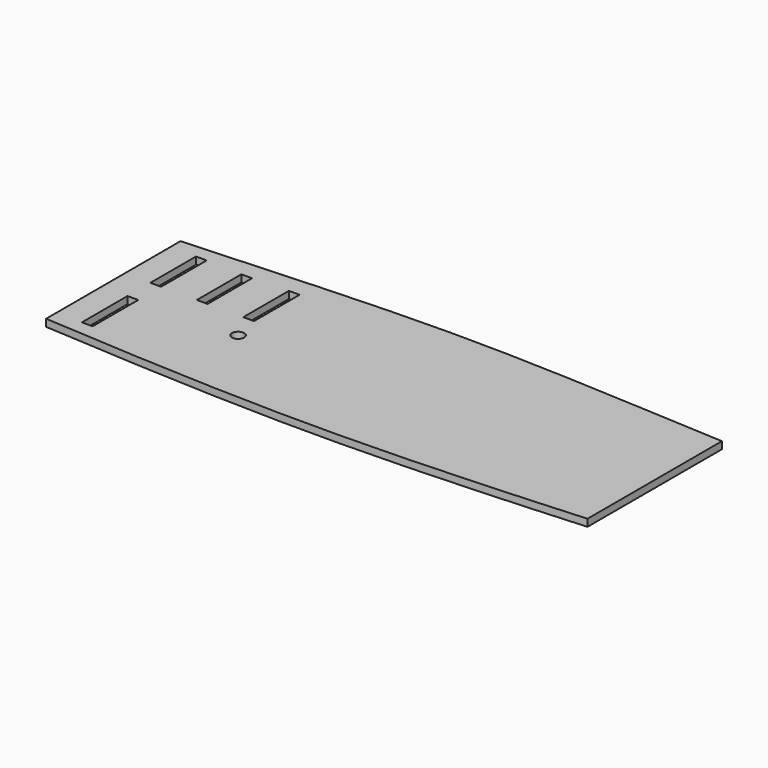
from build123d import *

# Parameters (mm, degrees)
F0_W     = 3
F0_H     = 15.95455
F0_H_2   = 15.564595
F1_DEPTH = 2
F2_R     = 1.709906
F3_DEPTH = 25


with BuildPart() as f1:
    # F0 (on Top) → F1 (new body)
    with BuildSketch(Plane.XY):
        with BuildLine():
            add(Edge.make_bspline(
                [(-75.74358, 23.504223), (-50.49572, 24.757731), (0, 28.379784), (50.49572, 24.757731), (75.74358, 23.504223)],
                knots=[0, 0, 0, 0, 75.805549, 151.611099, 151.611099, 151.611099, 151.611099], degree=3))
            Line((-75.74358, 23.504223), (-75.74358, -23.504223))
            add(Edge.make_bspline(
                [(-75.74358, -23.504223), (-50.49572, -25.16658), (0, -27.970934), (50.49572, -25.16658), (75.74358, -23.504223)],
                knots=[0, 0, 0, 0, 75.805549, 151.611099, 151.611099, 151.611099, 151.611099], degree=3))
            Line((75.74358, -23.504223), (75.74358, 23.504223))
        make_face()
        with Locations((-67.065108, -11.977275)):
            Rectangle(F0_W, F0_H, mode=Mode.SUBTRACT)
        with Locations((-67.065108, 11.977275)):
            Rectangle(F0_W, F0_H, mode=Mode.SUBTRACT)
        with Locations((-54.065108, 11.782298)):
            Rectangle(F0_W, F0_H_2, mode=Mode.SUBTRACT)
        with Locations((-41.065108, 11.977275)):
            Rectangle(F0_W, F0_H, mode=Mode.SUBTRACT)
    extrude(amount=F1_DEPTH)

    # F2 (on face) → F3 (cut)
    with BuildSketch(Plane.XY.offset(2)):
        with Locations((-38.084775, -3.431539)):
            Circle(F2_R)
    extrude(amount=-F3_DEPTH, mode=Mode.SUBTRACT)


solid = f1.part
